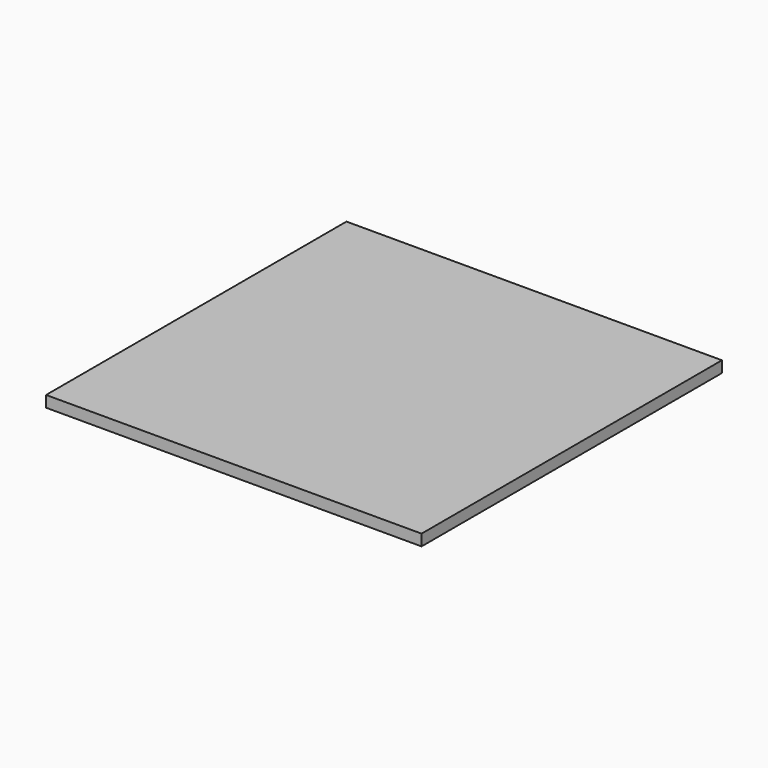
from build123d import *

# Parameters (mm, degrees)
BOX_W     = 20
BOX_H     = 20
BOX_DEPTH = 0.6


with BuildPart() as part:
    # Box → Box (new body)
    with BuildSketch(Plane.XY):
        with Locations((10, 10)):
            Rectangle(BOX_W, BOX_H)
    extrude(amount=BOX_DEPTH)


solid = part.part
